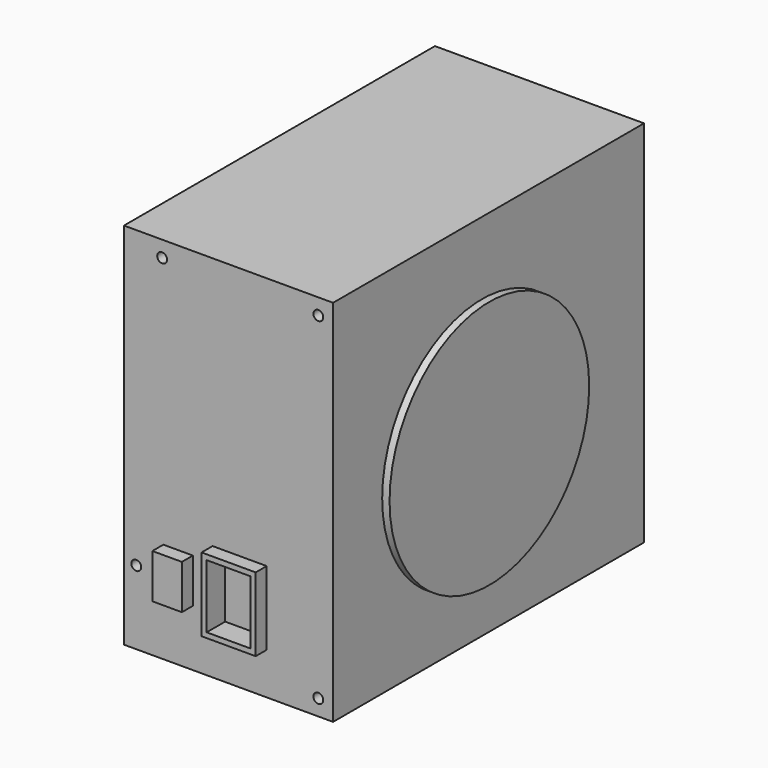
from build123d import *

# Parameters (mm, degrees)
F0_W      = 85
F0_H      = 150
F0_R      = 2
F1_DEPTH  = 158
F2_R      = 2
F3_DEPTH  = 15
F4_W      = 12
F4_H      = 18
F4_W_2    = 22
F4_H_2    = 30
F5_DEPTH  = 5.58503
F6_W      = 17.8319794536
F6_H      = 25.8319794536
F7_DEPTH  = 9.40301
F8_R      = 50.7166992879
F9_DEPTH  = 3
F10_W     = 36.3819319755
F10_H     = 12.9120806232
F11_DEPTH = 22.01429
F12_W     = 36.3819319755
F12_H     = 15.4613213601
F13_DEPTH = 105.26626


with BuildPart() as f1:
    # F0 (on Front) → F1 (new body)
    with BuildSketch(Plane.XZ):
        with Locations((42.5, 75)):
            Rectangle(F0_W, F0_H)
        with Locations((5, 30)):
            Circle(F0_R, mode=Mode.SUBTRACT)
        with Locations((79, 6.5)):
            Circle(F0_R, mode=Mode.SUBTRACT)
        with Locations((15.5, 143.5)):
            Circle(F0_R, mode=Mode.SUBTRACT)
        with Locations((79, 143.5)):
            Circle(F0_R, mode=Mode.SUBTRACT)
        with Locations((15.5, 143.5)):
            Circle(F0_R)
        with Locations((79, 143.5)):
            Circle(F0_R)
        with Locations((79, 6.5)):
            Circle(F0_R)
        with Locations((5, 30)):
            Circle(F0_R)
    extrude(amount=F1_DEPTH)

    # F2 (on face) → F3 (cut)
    with BuildSketch(Plane.XZ.offset(158)):
        with Locations((79, 6.5)):
            Circle(F2_R)
        with Locations((5, 30)):
            Circle(F2_R)
        with Locations((15.5, 143.5)):
            Circle(F2_R)
        with Locations((79, 143.5)):
            Circle(F2_R)
    extrude(amount=-F3_DEPTH, mode=Mode.SUBTRACT)

    # F4 (on face) → F5 (join)
    with BuildSketch(Plane.XZ.offset(158)):
        with Locations((22, 32)):
            Rectangle(F4_W, F4_H)
        with Locations((47, 32)):
            Rectangle(F4_W_2, F4_H_2)
    extrude(amount=F5_DEPTH)

    # F6 (on face) → F7 (cut)
    with BuildSketch(Plane.XZ.offset(163.58503)):
        with Locations((47, 32)):
            Rectangle(F6_W, F6_H)
    extrude(amount=-F7_DEPTH, mode=Mode.SUBTRACT)

    # F8 (on face) → F9 (join)
    with BuildSketch(Plane.YZ.offset(85)):
        with Locations((-82.3336839676, 69.8694512248)):
            Circle(F8_R)
        with Locations((-82.3336839676, 69.8694512248)):
            Circle(F8_R)
    extrude(amount=F9_DEPTH)

    # F10 (on face) → F11 (join)
    with BuildSketch(Plane.XZ):
        with Locations((35.7437124476, 14.9440853857)):
            Rectangle(F10_W, F10_H)
    extrude(amount=-F11_DEPTH)

    # F12 (on face) → F13 (join)
    with BuildSketch(Plane.XY.offset(21.4001256973)):
        with Locations((35.7437124476, 14.2836293199)):
            Rectangle(F12_W, F12_H)
    extrude(amount=F13_DEPTH)


solid = f1.part
